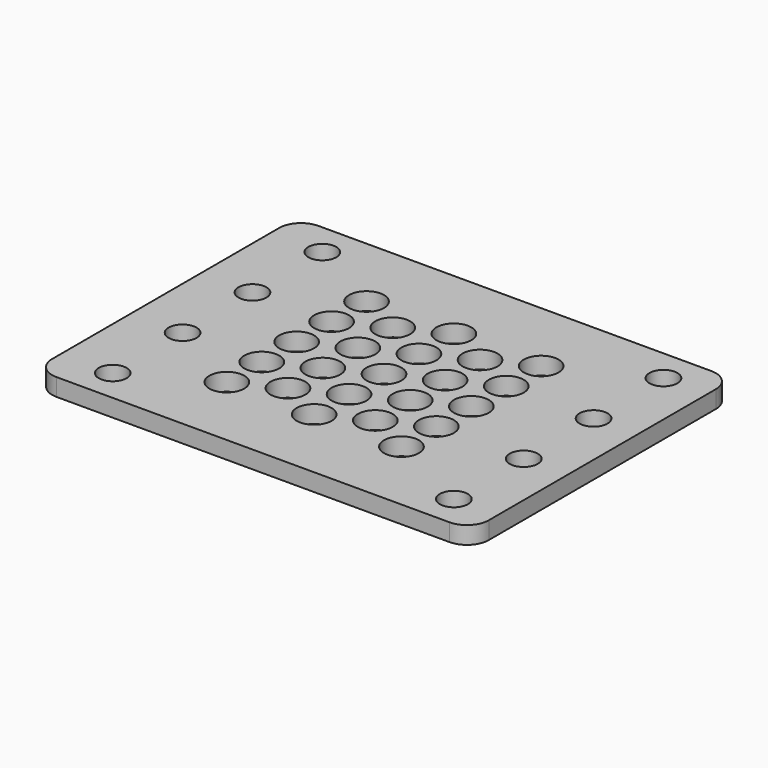
from build123d import *

# Parameters (mm, degrees)
SKETCH_W     = 100
SKETCH_H     = 75
SKETCH_R     = 3.2
PAD_DEPTH    = 4
SKETCH001_R  = 4
POCKET_DEPTH = 5
FILLET_R     = 5


with BuildPart() as part:
    # Sketch → Pad (new body)
    with BuildSketch(Plane.XY):
        with Locations((50, 37.5)):
            Rectangle(SKETCH_W, SKETCH_H)
        with Locations((11.871567, 67.5)):
            Circle(SKETCH_R, mode=Mode.SUBTRACT)
        with Locations((11.871567, 47.5)):
            Circle(SKETCH_R, mode=Mode.SUBTRACT)
        with Locations((11.871567, 27.5)):
            Circle(SKETCH_R, mode=Mode.SUBTRACT)
        with Locations((11.871567, 7.5)):
            Circle(SKETCH_R, mode=Mode.SUBTRACT)
        with Locations((90, 67.5)):
            Circle(SKETCH_R, mode=Mode.SUBTRACT)
        with Locations((90, 47.5)):
            Circle(SKETCH_R, mode=Mode.SUBTRACT)
        with Locations((90, 27.5)):
            Circle(SKETCH_R, mode=Mode.SUBTRACT)
        with Locations((90, 7.5)):
            Circle(SKETCH_R, mode=Mode.SUBTRACT)
    extrude(amount=PAD_DEPTH)

    # Sketch001 (on Face14 of Pad) → Pocket (cut)
    with BuildSketch(Plane.XY.offset(4)):
        with Locations((30, 57.5)):
            Circle(SKETCH001_R)
        with Locations((30, 47.5)):
            Circle(SKETCH001_R)
        with Locations((30, 37.5)):
            Circle(SKETCH001_R)
        with Locations((30, 27.5)):
            Circle(SKETCH001_R)
        with Locations((30, 17.5)):
            Circle(SKETCH001_R)
        with Locations((50, 57.5)):
            Circle(SKETCH001_R)
        with Locations((50, 47.5)):
            Circle(SKETCH001_R)
        with Locations((50, 37.5)):
            Circle(SKETCH001_R)
        with Locations((50, 27.5)):
            Circle(SKETCH001_R)
        with Locations((50, 17.5)):
            Circle(SKETCH001_R)
        with Locations((70, 57.5)):
            Circle(SKETCH001_R)
        with Locations((70, 47.5)):
            Circle(SKETCH001_R)
        with Locations((70, 37.5)):
            Circle(SKETCH001_R)
        with Locations((70, 27.5)):
            Circle(SKETCH001_R)
        with Locations((70, 17.5)):
            Circle(SKETCH001_R)
        with Locations((40, 52.5)):
            Circle(SKETCH001_R)
        with Locations((40, 42.5)):
            Circle(SKETCH001_R)
        with Locations((40, 32.5)):
            Circle(SKETCH001_R)
        with Locations((40, 22.5)):
            Circle(SKETCH001_R)
        with Locations((60, 52.5)):
            Circle(SKETCH001_R)
        with Locations((60, 42.5)):
            Circle(SKETCH001_R)
        with Locations((60, 32.5)):
            Circle(SKETCH001_R)
        with Locations((60, 22.5)):
            Circle(SKETCH001_R)
    extrude(amount=-POCKET_DEPTH, mode=Mode.SUBTRACT)

    # Fillet
    fillet_edges = [part.edges().sort_by_distance(p)[0] for p in [
        (100, 75, 2),
        (100, 0, 2),
        (0, 75, 2),
        (0, 0, 2),
    ]]
    fillet(fillet_edges, radius=FILLET_R)


solid = part.part
